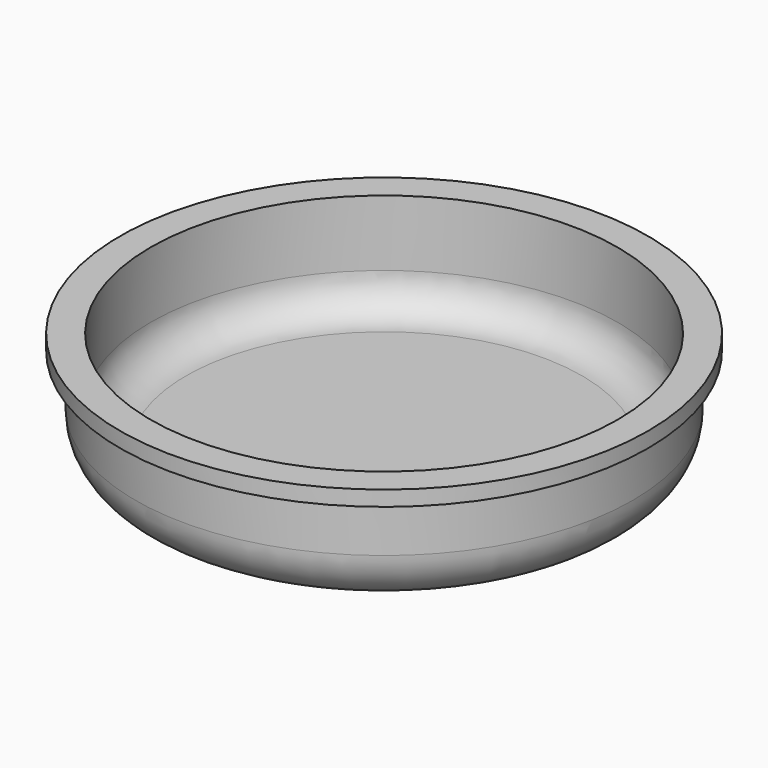
from build123d import *

# Parameters (mm, degrees)
SKETCH_R      = 24.5
PAD_DEPTH     = 10
FILLET_R      = 5
THICKNESS_T   = -1.5
SKETCH001_R   = 26
SKETCH001_R_2 = 23
PAD001_DEPTH  = 1.5


with BuildPart() as part:
    # Sketch → Pad (new body)
    with BuildSketch(Plane.XY):
        Circle(SKETCH_R)
    extrude(amount=PAD_DEPTH)

    # Fillet
    fillet_edges = [part.edges().sort_by_distance(p)[0] for p in [
        (-24.5, 0, 0),
    ]]
    fillet(fillet_edges, radius=FILLET_R)

    # Thickness
    thickness_openings = [part.faces().sort_by_distance(p)[0] for p in [
        (0, 0, 10),
    ]]
    offset(amount=THICKNESS_T, openings=thickness_openings)

    # Sketch001 → Pad001 (new body)
    with BuildSketch(Plane.XY.offset(10)):
        Circle(SKETCH001_R)
        Circle(SKETCH001_R_2, mode=Mode.SUBTRACT)
    extrude(amount=PAD001_DEPTH)


solid = part.part
